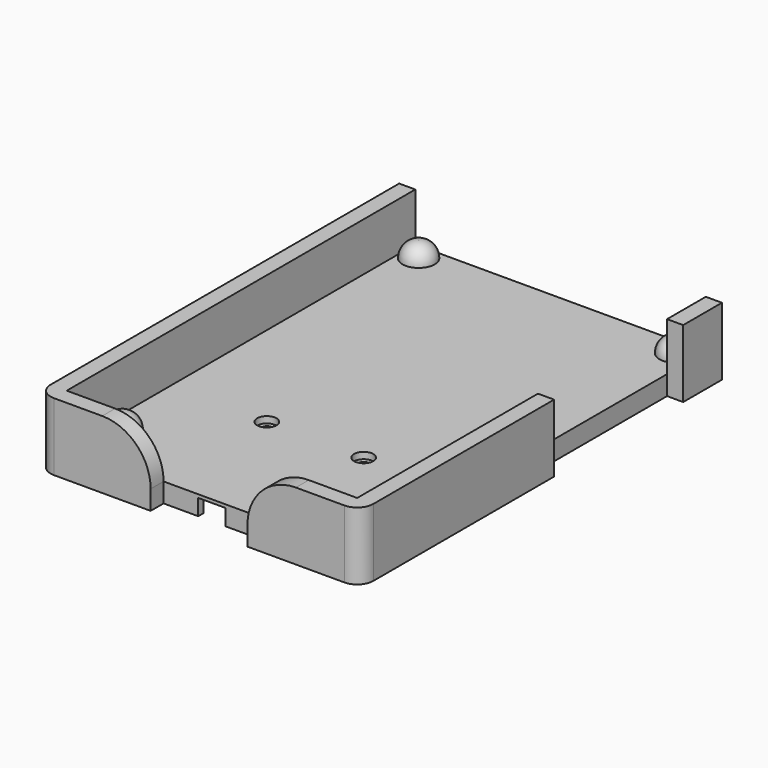
from build123d import *

# Parameters (mm, degrees)
SKETCH_W        = 100
SKETCH_H        = 140
PAD_DEPTH       = 21
SKETCH001_W     = 90
SKETCH001_H     = 135
POCKET_DEPTH    = 15
SKETCH003_R     = 3
POCKET001_DEPTH = 2
SKETCH004_R     = 1.6
POCKET002_DEPTH = 350.647794
SKETCH005_W     = 5
SKETCH005_H     = 50
POCKET003_DEPTH = 21.001
SKETCH006_W     = 30
SKETCH006_H     = 5
POCKET004_DEPTH = 21.001
FILLET_R        = 5
POCKET005_DEPTH = 5
FILLET001_R     = 15
SKETCH008_R     = 5
PAD001_DEPTH    = 5
FILLET002_R     = 4.9
SKETCH009_R     = 5
PAD002_DEPTH    = 5
FILLET003_R     = 4.9


with BuildPart() as part:
    # Sketch → Pad (new body)
    with BuildSketch(Plane.XY):
        Rectangle(SKETCH_W, SKETCH_H)
    extrude(amount=PAD_DEPTH)

    # Sketch001 → Pocket (cut)
    with BuildSketch(Plane.XY.offset(21)):
        with Locations((0, 2.5)):
            Rectangle(SKETCH001_W, SKETCH001_H)
    extrude(amount=-POCKET_DEPTH, mode=Mode.SUBTRACT)

    # Sketch003 → Pocket001 (cut)
    with BuildSketch(Plane.XY.offset(6)):
        with Locations((-15, -25)):
            Circle(SKETCH003_R)
    pocket001 = extrude(amount=-POCKET001_DEPTH, mode=Mode.SUBTRACT)

    # Sketch004 → Pocket002 (cut, through all)
    with BuildSketch(Plane.XY.offset(4)):
        with Locations((-15, -25)):
            Circle(SKETCH004_R)
    pocket002 = extrude(amount=-POCKET002_DEPTH, mode=Mode.SUBTRACT)

    # Mirrored: Pocket002, Pocket001 across Sketch004 V_Axis
    add(pocket002.mirror(Plane(origin=(0, 0, 4), x_dir=(0, 0, 1), z_dir=(1, 0, 0))), mode=Mode.SUBTRACT)
    add(pocket001.mirror(Plane(origin=(0, 0, 4), x_dir=(0, 0, 1), z_dir=(1, 0, 0))), mode=Mode.SUBTRACT)

    # Sketch005 → Pocket003 (cut, through all)
    with BuildSketch(Plane.XY.offset(21)):
        with Locations((47.5, 30)):
            Rectangle(SKETCH005_W, SKETCH005_H)
    extrude(amount=-POCKET003_DEPTH, mode=Mode.SUBTRACT)

    # Sketch006 → Pocket004 (cut, through all)
    with BuildSketch(Plane.XY.offset(21)):
        with Locations((0, -67.5)):
            Rectangle(SKETCH006_W, SKETCH006_H)
    extrude(amount=-POCKET004_DEPTH, mode=Mode.SUBTRACT)

    # Fillet
    fillet_edges = [part.edges().sort_by_distance(p)[0] for p in [
        (-50, -70, 10.5),
        (50, -70, 10.5),
    ]]
    fillet(fillet_edges, radius=FILLET_R)

    # Sketch007 → Pocket005 (cut)
    with BuildSketch(Plane(origin=(0, 0, 0), x_dir=(1, 0, 0), z_dir=(0, 0, -1))):
        with BuildLine():
            Line((9, 30), (9, 21.392622))
            ThreePointArc((-9, 21.392622), (0, -29), (9, 21.392622))
            Line((-9, 21.392622), (-9, 30))
            Line((-17, 30), (-9, 30))
            Line((-17, 63), (-17, 30))
            Line((-4.261222, 63), (-17, 63))
            Line((-4.261222, 63), (-4.261222, 65))
            Line((-4.261222, 65), (4.261222, 65))
            Line((4.261222, 65), (4.261222, 63))
            Line((17, 63), (4.261222, 63))
            Line((17, 30), (17, 63))
            Line((9, 30), (17, 30))
        make_face()
    extrude(amount=-POCKET005_DEPTH, mode=Mode.SUBTRACT)

    # Fillet001
    fillet001_edges = [part.edges().sort_by_distance(p)[0] for p in [
        (-15, -67.5, 21),
        (15, -67.5, 21),
    ]]
    fillet(fillet001_edges, radius=FILLET001_R)

    # Sketch008 → Pad001 (new body)
    with BuildSketch(Plane.XY.offset(6)):
        with Locations((-39.8, 64.8)):
            Circle(SKETCH008_R)
    pad001 = extrude(amount=PAD001_DEPTH)

    # Mirrored001: Pad001 across Sketch008 V_Axis
    add(pad001.mirror(Plane(origin=(0, 0, 6), x_dir=(0, 0, 1), z_dir=(1, 0, 0))))

    # Fillet002
    fillet002_edges = [part.edges().sort_by_distance(p)[0] for p in [
        (-44.8, 64.8, 11),
        (44.8, 64.8, 11),
    ]]
    fillet(fillet002_edges, radius=FILLET002_R)

    # Sketch009 → Pad002 (new body)
    with BuildSketch(Plane.XY.offset(6)):
        with Locations((-39.8, -50)):
            Circle(SKETCH009_R)
    pad002 = extrude(amount=PAD002_DEPTH)

    # Mirrored002: Pad002 across Sketch009 V_Axis
    add(pad002.mirror(Plane(origin=(0, 0, 6), x_dir=(0, 0, 1), z_dir=(1, 0, 0))))

    # Fillet003
    fillet003_edges = [part.edges().sort_by_distance(p)[0] for p in [
        (-44.8, -50, 11),
        (44.8, -50, 11),
    ]]
    fillet(fillet003_edges, radius=FILLET003_R)


solid = part.part
